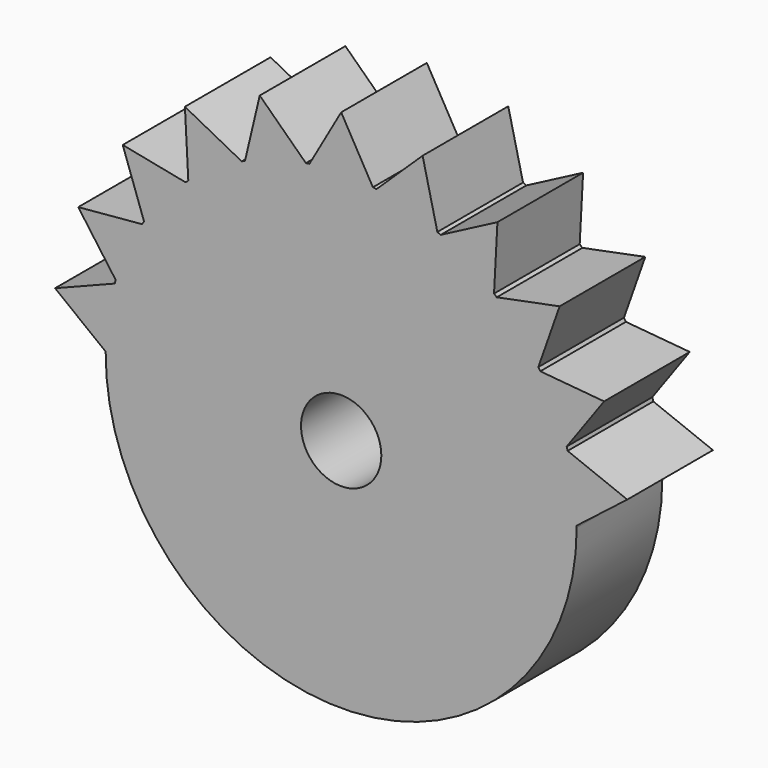
from build123d import *

# Parameters (mm, degrees)
F1_DEPTH = 12.7
F2_R     = 4.7625
F3_DEPTH = 12.7


with BuildPart() as f1:
    # F0 (on Front) → F1 (new body)
    with BuildSketch(Plane.XZ):
        with BuildLine():
            ThreePointArc((26.865064, 7.665134), (27.652819, 3.975875), (27.936358, 0.214121))
            Line((27.936358, 0.214121), (33.938185, 4.879574))
            Line((33.938185, 4.879574), (26.865064, 7.665134))
        make_face()
        with BuildLine():
            ThreePointArc((23.617322, 14.923406), (25.412552, 11.605523), (26.744415, 8.076029))
            Line((26.744415, 8.076029), (31.188715, 14.243409))
            Line((31.188715, 14.243409), (23.617322, 14.923406))
        make_face()
        with BuildLine():
            ThreePointArc((18.456246, 20.972672), (21.113511, 18.294961), (23.385798, 15.283665))
            Line((23.385798, 15.283665), (25.912521, 22.453327))
            Line((25.912521, 22.453327), (18.456246, 20.972672))
        make_face()
        with BuildLine():
            ThreePointArc((11.799954, 25.322856), (15.103979, 23.50225), (18.132602, 21.25311))
            Line((18.132602, 21.25311), (18.537048, 28.84421))
            Line((18.537048, 28.84421), (11.799954, 25.322856))
        make_face()
        with BuildLine():
            ThreePointArc((-27.936358, 0.214121), (-0.107061, -27.936974), (27.937179, 0))
            ThreePointArc((27.937179, 0), (27.936974, 0.107061), (27.936358, 0.214121))
            ThreePointArc((27.936358, 0.214121), (27.652819, 3.975875), (26.865064, 7.665134))
            ThreePointArc((26.865064, 7.665134), (26.805527, 7.870813), (26.744415, 8.076029))
            ThreePointArc((26.744415, 8.076029), (25.412552, 11.605523), (23.617322, 14.923406))
            ThreePointArc((23.617322, 14.923406), (23.50225, 15.103979), (23.385798, 15.283665))
            ThreePointArc((23.385798, 15.283665), (21.113511, 18.294961), (18.456246, 20.972672))
            ThreePointArc((18.456246, 20.972672), (18.294961, 21.113511), (18.132602, 21.25311))
            ThreePointArc((18.132602, 21.25311), (15.103979, 23.50225), (11.799954, 25.322856))
            ThreePointArc((11.799954, 25.322856), (11.605523, 25.412552), (11.410412, 25.500754))
            ThreePointArc((11.410412, 25.500754), (7.870813, 26.805527), (4.187699, 27.621534))
            ThreePointArc((4.187699, 27.621534), (3.975875, 27.652819), (3.763817, 27.682479))
            ThreePointArc((3.763817, 27.682479), (0, 27.937179), (-3.763817, 27.682479))
            ThreePointArc((-3.763817, 27.682479), (-3.975875, 27.652819), (-4.187699, 27.621534))
            ThreePointArc((-4.187699, 27.621534), (-7.870813, 26.805527), (-11.410412, 25.500754))
            ThreePointArc((-11.410412, 25.500754), (-11.605523, 25.412552), (-11.799954, 25.322856))
            ThreePointArc((-11.799954, 25.322856), (-15.103979, 23.50225), (-18.132602, 21.25311))
            ThreePointArc((-18.132602, 21.25311), (-18.294961, 21.113511), (-18.456246, 20.972672))
            ThreePointArc((-18.456246, 20.972672), (-21.113511, 18.294961), (-23.385798, 15.283665))
            ThreePointArc((-23.385798, 15.283665), (-23.50225, 15.103979), (-23.617322, 14.923406))
            ThreePointArc((-23.617322, 14.923406), (-25.412552, 11.605523), (-26.744415, 8.076029))
            ThreePointArc((-26.744415, 8.076029), (-26.805527, 7.870813), (-26.865064, 7.665134))
            ThreePointArc((-26.865064, 7.665134), (-27.652819, 3.975875), (-27.936358, 0.214121))
        make_face()
        with BuildLine():
            ThreePointArc((4.187699, 27.621534), (7.870813, 26.805527), (11.410412, 25.500754))
            Line((11.410412, 25.500754), (9.659815, 32.898307))
            Line((9.659815, 32.898307), (4.187699, 27.621534))
        make_face()
        with BuildLine():
            ThreePointArc((-3.763817, 27.682479), (0, 27.937179), (3.763817, 27.682479))
            Line((3.763817, 27.682479), (0, 34.287179))
            Line((0, 34.287179), (-3.763817, 27.682479))
        make_face()
        with BuildLine():
            Line((-9.659815, 32.898307), (-11.410412, 25.500754))
            ThreePointArc((-11.410412, 25.500754), (-7.870813, 26.805527), (-4.187699, 27.621534))
            Line((-4.187699, 27.621534), (-9.659815, 32.898307))
        make_face()
        with BuildLine():
            Line((-18.537048, 28.84421), (-18.132602, 21.25311))
            ThreePointArc((-18.132602, 21.25311), (-15.103979, 23.50225), (-11.799954, 25.322856))
            Line((-11.799954, 25.322856), (-18.537048, 28.84421))
        make_face()
        with BuildLine():
            Line((-25.912521, 22.453327), (-23.385798, 15.283665))
            ThreePointArc((-23.385798, 15.283665), (-21.113511, 18.294961), (-18.456246, 20.972672))
            Line((-18.456246, 20.972672), (-25.912521, 22.453327))
        make_face()
        with BuildLine():
            Line((-31.188715, 14.243409), (-26.744415, 8.076029))
            ThreePointArc((-26.744415, 8.076029), (-25.412552, 11.605523), (-23.617322, 14.923406))
            Line((-23.617322, 14.923406), (-31.188715, 14.243409))
        make_face()
        with BuildLine():
            Line((-33.938185, 4.879574), (-27.936358, 0.214121))
            ThreePointArc((-27.936358, 0.214121), (-27.652819, 3.975875), (-26.865064, 7.665134))
            Line((-26.865064, 7.665134), (-33.938185, 4.879574))
        make_face()
    extrude(amount=F1_DEPTH)

    # F2 (on face) → F3 (cut)
    with BuildSketch(Plane.XZ):
        Circle(F2_R)
    extrude(amount=F3_DEPTH, mode=Mode.SUBTRACT)


solid = f1.part
